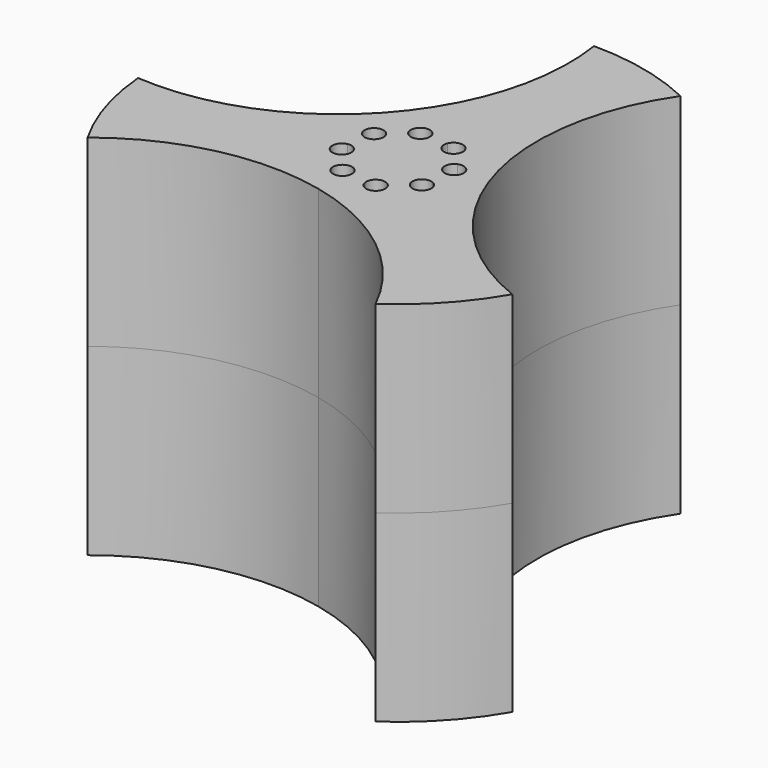
from build123d import *

# Parameters (mm, degrees)
F1_DEPTH      = 38.1
F1_DEPTH_BACK = 38.1


with BuildPart() as f1:
    # F0 (on Top) → F1 (new body, two sides)
    with BuildSketch(Plane.XY) as f1_sk:
        with BuildLine():
            ThreePointArc((-90.6969597738, 13.086746717), (-76.7539676292, 16.2972540142), (-70.5542587543, 29.1921366006))
            ThreePointArc((-70.5542587543, 29.1921366006), (-70.7418172824, 31.673669272), (-71.3002314253, 34.0988200397))
            ThreePointArc((-71.3002314253, 34.0988200397), (-83.4315577445, 45.2975264864), (-99.1955851313, 40.3908427907))
            ThreePointArc((-99.1955851313, 40.3908427907), (-102.828286017, 24.2854529488), (-90.6969597738, 13.086746717))
        make_face()
        with BuildLine():
            ThreePointArc((-77.3292507738, 30.1186681005), (-77.2962629506, 29.6559242455), (-77.2852587543, 29.1921366006))
            ThreePointArc((-77.2852587543, 29.1921366006), (-77.3859317475, 27.7925554665), (-77.6858779078, 26.4217911893))
            ThreePointArc((-77.6858779078, 26.4217911893), (-76.7965239356, 25.6970936215), (-76.4622244556, 24.5996507254))
            ThreePointArc((-76.4622244556, 24.5996507254), (-77.5033356386, 22.8632918247), (-79.5254118898, 22.9636031493))
            ThreePointArc((-79.5254118898, 22.9636031493), (-80.8453813803, 21.6453223583), (-82.3916720877, 20.6016898809))
            ThreePointArc((-82.3916720877, 20.6016898809), (-82.2770283841, 20.2284516132), (-82.2383060109, 19.8399280476))
            ThreePointArc((-82.2383060109, 19.8399280476), (-84.0144862482, 17.8808452625), (-86.1377272544, 19.4571286201))
            ThreePointArc((-86.1377272544, 19.4571286201), (-88.0032519189, 19.458322711), (-89.8346041656, 19.8137557541))
            ThreePointArc((-89.8346041656, 19.8137557541), (-92.5812060719, 18.82068306), (-93.2927922056, 21.6532897362))
            ThreePointArc((-93.2927922056, 21.6532897362), (-94.6110729966, 22.9732592267), (-95.6547054739, 24.5195499341))
            ThreePointArc((-95.6547054739, 24.5195499341), (-98.2990547433, 25.759482331), (-96.7992667347, 28.2656051007))
            ThreePointArc((-96.7992667347, 28.2656051007), (-96.7980726438, 30.1311297652), (-96.4426396008, 31.9624820119))
            ThreePointArc((-96.4426396008, 31.9624820119), (-97.4357122948, 34.7090839182), (-94.6031056187, 35.420670052))
            ThreePointArc((-94.6031056187, 35.420670052), (-93.2831361282, 36.7389508429), (-91.7368454208, 37.7825833203))
            ThreePointArc((-91.7368454208, 37.7825833203), (-90.4969130238, 40.4269325897), (-87.9907902541, 38.9271445811))
            ThreePointArc((-87.9907902541, 38.9271445811), (-86.1252655897, 38.9259504902), (-84.2939133429, 38.5705174471))
            ThreePointArc((-84.2939133429, 38.5705174471), (-82.0922279233, 39.7572344826), (-80.503272879, 37.8256708993))
            ThreePointArc((-80.503272879, 37.8256708993), (-80.5882188045, 37.2536426673), (-80.8357253029, 36.7309834651))
            ThreePointArc((-80.8357253029, 36.7309834651), (-79.517444512, 35.4110139746), (-78.4738120346, 33.8647232672))
            ThreePointArc((-78.4738120346, 33.8647232672), (-76.622219003, 33.688875838), (-75.7435502012, 32.0495893439))
            ThreePointArc((-75.7435502012, 32.0495893439), (-76.1907788706, 30.8002992301), (-77.3292507738, 30.1186681005))
        make_face(mode=Mode.SUBTRACT)
        with BuildLine():
            ThreePointArc((-71.3002314253, 34.0988200397), (-70.7418172824, 31.673669272), (-70.5542587543, 29.1921366006))
            ThreePointArc((-70.5542587543, 29.1921366006), (-76.7539676292, 16.2972540142), (-90.6969597738, 13.086746717))
            ThreePointArc((-90.6969597738, 13.086746717), (-71.5368890892, 3.9232487058), (-58.2455134206, -12.6422979885))
            ThreePointArc((-58.2455134206, -12.6422979885), (-49.7371002236, -5.2654204228), (-43.0629257789, 3.804685047))
            ThreePointArc((-43.0629257789, 3.804685047), (-60.6365657041, 15.7313428229), (-71.3002314253, 34.0988200397))
        make_face()
        with BuildLine():
            ThreePointArc((-99.1955851313, 40.3908427907), (-83.4315577445, 45.2975264864), (-71.3002314253, 34.0988200397))
            ThreePointArc((-71.3002314253, 34.0988200397), (-72.9444447549, 55.2736770618), (-65.2439483139, 75.0671194593))
            ThreePointArc((-65.2439483139, 75.0671194593), (-75.8867182849, 78.747182651), (-87.0787472591, 79.9921345345))
            ThreePointArc((-87.0787472591, 79.9921345345), (-88.6207159571, 58.8095868891), (-99.1955851313, 40.3908427907))
        make_face()
        with BuildLine():
            ThreePointArc((-131.0511032248, 3.7795902204), (-111.9354945769, 13.0354799606), (-90.6969597738, 13.086746717))
            ThreePointArc((-90.6969597738, 13.086746717), (-102.828286017, 24.2854529488), (-99.1955851313, 40.3908427907))
            ThreePointArc((-99.1955851313, 40.3908427907), (-116.7114425044, 28.3794839343), (-137.7033145282, 25.151588331))
            ThreePointArc((-137.7033145282, 25.151588331), (-135.5689577543, 14.0946475737), (-131.0511032248, 3.7795902204))
        make_face()
        with BuildLine():
            ThreePointArc((-77.6858779078, 26.4217911893), (-77.3859317475, 27.7925554665), (-77.2852587543, 29.1921366006))
            ThreePointArc((-77.2852587543, 29.1921366006), (-77.2962629506, 29.6559242455), (-77.3292507738, 30.1186681005))
            ThreePointArc((-77.3292507738, 30.1186681005), (-79.5946376372, 31.4743878177), (-78.4738120346, 33.8647232672))
            ThreePointArc((-78.4738120346, 33.8647232672), (-79.517444512, 35.4110139746), (-80.8357253029, 36.7309834651))
            ThreePointArc((-80.8357253029, 36.7309834651), (-83.3962343215, 36.0877516573), (-84.2939133429, 38.5705174471))
            ThreePointArc((-84.2939133429, 38.5705174471), (-86.1252655897, 38.9259504902), (-87.9907902541, 38.9271445811))
            ThreePointArc((-87.9907902541, 38.9271445811), (-87.9626287125, 38.7366649164), (-87.9532114976, 38.5443451537))
            ThreePointArc((-87.9532114976, 38.5443451537), (-89.5331879319, 36.6145675269), (-91.7368454208, 37.7825833203))
            ThreePointArc((-91.7368454208, 37.7825833203), (-93.2831361282, 36.7389508429), (-94.6031056187, 35.420670052))
            ThreePointArc((-94.6031056187, 35.420670052), (-93.9614341522, 34.7120112928), (-93.7292930529, 33.7846224758))
            ThreePointArc((-93.7292930529, 33.7846224758), (-94.6003501568, 32.1504219558), (-96.4426396008, 31.9624820119))
            ThreePointArc((-96.4426396008, 31.9624820119), (-96.7980726438, 30.1311297652), (-96.7992667347, 28.2656051007))
            ThreePointArc((-96.7992667347, 28.2656051007), (-95.1671771935, 27.8559551879), (-94.4479673073, 26.3346838573))
            ThreePointArc((-94.4479673073, 26.3346838573), (-94.7771808133, 25.2448526591), (-95.6547054739, 24.5195499341))
            ThreePointArc((-95.6547054739, 24.5195499341), (-94.6110729966, 22.9732592267), (-93.2927922056, 21.6532897362))
            ThreePointArc((-93.2927922056, 21.6532897362), (-91.0847163975, 22.4421563765), (-89.6882446295, 20.558602302))
            ThreePointArc((-89.6882446295, 20.558602302), (-89.7251810461, 20.1790573462), (-89.8346041656, 19.8137557541))
            ThreePointArc((-89.8346041656, 19.8137557541), (-88.0032519189, 19.458322711), (-86.1377272544, 19.4571286201))
            ThreePointArc((-86.1377272544, 19.4571286201), (-84.7820075372, 21.7225154836), (-82.3916720877, 20.6016898809))
            ThreePointArc((-82.3916720877, 20.6016898809), (-80.8453813803, 21.6453223583), (-79.5254118898, 22.9636031493))
            ThreePointArc((-79.5254118898, 22.9636031493), (-80.1686436975, 25.5241121678), (-77.6858779078, 26.4217911893))
        make_face()
    extrude(amount=F1_DEPTH)
    extrude(f1_sk.sketch, amount=-F1_DEPTH_BACK)


solid = f1.part
